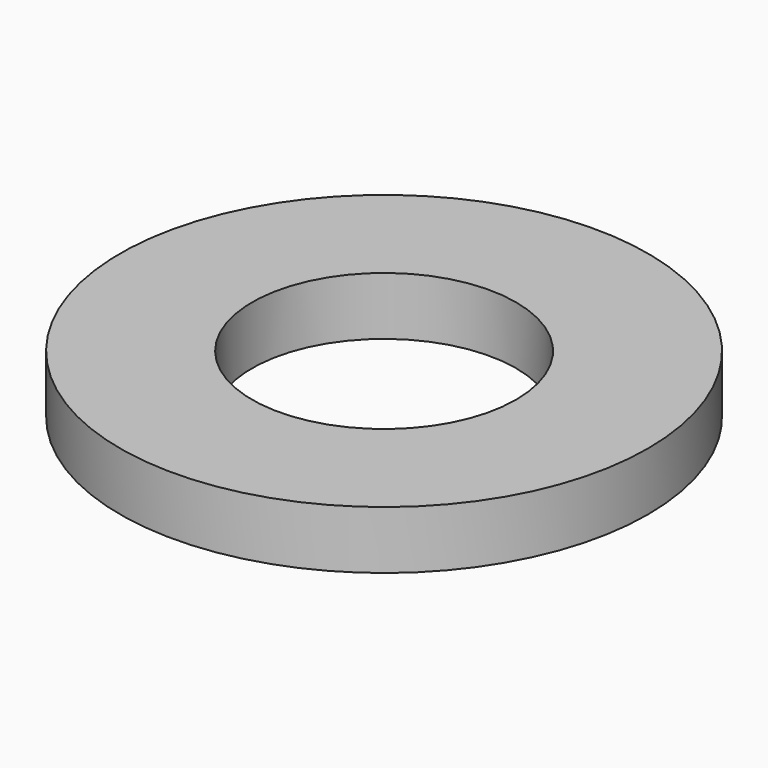
from build123d import *

# Parameters (mm, degrees)
F0_R     = 5
F0_R_2   = 2.5
F1_DEPTH = 1.1


with BuildPart() as f1:
    # F0 (on Top) → F1 (new body)
    with BuildSketch(Plane.XY):
        Circle(F0_R)
        Circle(F0_R_2, mode=Mode.SUBTRACT)
        Circle(F0_R)
        Circle(F0_R_2, mode=Mode.SUBTRACT)
    extrude(amount=F1_DEPTH)


solid = f1.part
